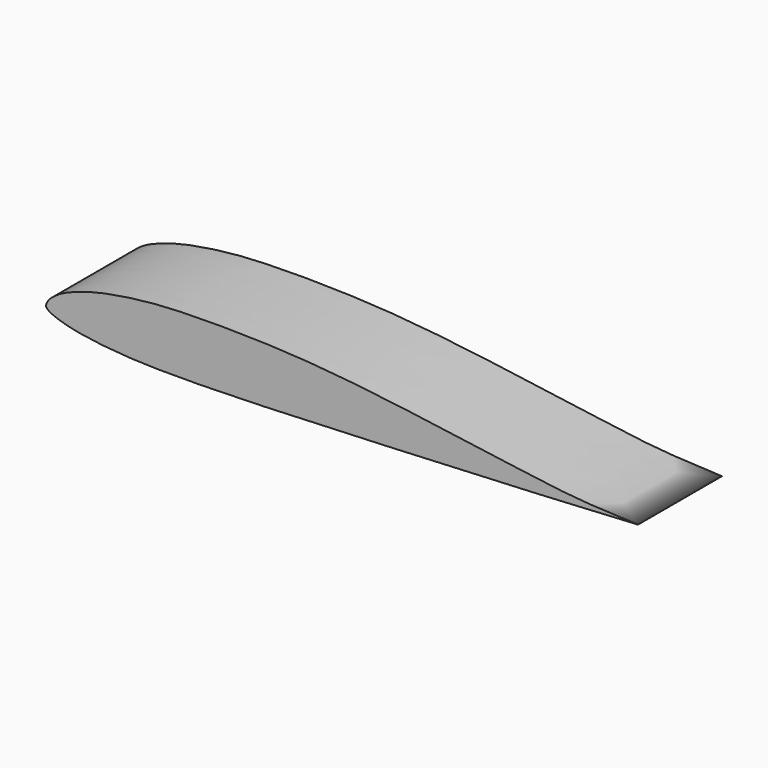
from build123d import *

# Parameters (mm, degrees)
F1_DEPTH = 25


with BuildPart() as f1:
    # F0 (on Front) → F1 (new body)
    with BuildSketch(Plane.XZ):
        with BuildLine():
            add(Edge.make_bspline(
                [(0, 0), (0, 0.5559037277), (0.6718342644, 1.6479034498), (1.9312892702, 2.681762671), (3.6608696449, 3.9533041178), (9.6520384942, 6.4151667619), (18.684579477, 8.1307862124), (29.756070856, 9.4108494711), (52.9058474228, 9.4183201263), (74.4557570242, 7.733733392), (100.8110919701, 4.0920695088), (116.4695031918, 1.923777104), (126.9199972859, 0.5930776391), (136.0630635257, 0.2077540063), (140.9926563501, 0)],
                knots=[0, 0, 0, 0, 0.0340705985, 0.0668432801, 0.1037537265, 0.1686986847, 0.2473627098, 0.3343521942, 0.4579717322, 0.5823875853, 0.7164573682, 0.8191805501, 0.902368287, 1, 1, 1, 1], degree=3))
            add(Edge.make_bspline(
                [(0, 0), (0, -0.2585217007), (0.8235657223, -1.1518700813), (4.816987409, -2.5214330322), (10.979966137, -3.6941530605), (27.169398351, -5.2565360067), (73.187304812, -3.3909763394), (118.5116683507, -1.2826691619), (134.5315600374, -0.3687168937), (140.9926563501, 0)],
                knots=[0, 0, 0, 0, 0.0383529585, 0.1108737221, 0.1988095455, 0.3388690679, 0.5867191234, 0.8333052695, 1, 1, 1, 1], degree=3))
        make_face()
    extrude(amount=F1_DEPTH)


solid = f1.part
